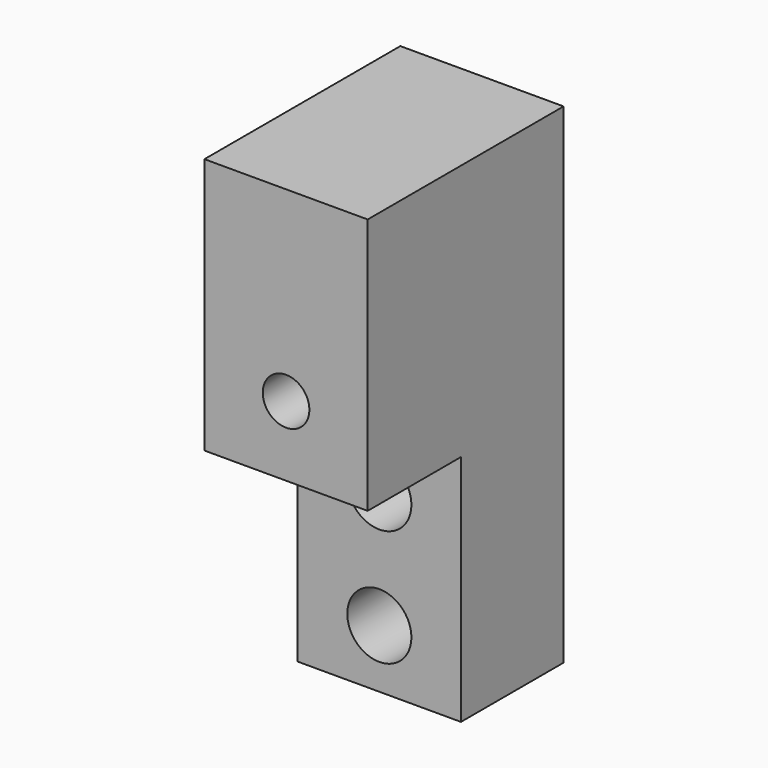
from build123d import *

# Parameters (mm, degrees)
F0_W     = 14
F0_H     = 22
F0_R     = 2
F0_H_2   = 20
F0_R_2   = 2.75
F1_DEPTH = 21
F2_DEPTH = 10
F3_R     = 4
F3_R_2   = 2
F4_DEPTH = 11
F5_R     = 2.75
F6_DEPTH = 1


with BuildPart() as f1:
    # F0 (on Front) → F1 (new body)
    with BuildSketch(Plane.XZ):
        with Locations((-7, 31)):
            Rectangle(F0_W, F0_H)
        with Locations((-7, 26)):
            Circle(F0_R, mode=Mode.SUBTRACT)
        with Locations((-7, 10)):
            Rectangle(F0_W, F0_H_2)
        with Locations((-7, 5)):
            Circle(F0_R_2, mode=Mode.SUBTRACT)
        with Locations((-7, 15)):
            Circle(F0_R_2, mode=Mode.SUBTRACT)
    extrude(amount=-F1_DEPTH)

    # F0 (on Front) → F2 (cut)
    with BuildSketch(Plane.XZ):
        with Locations((-7, 10)):
            Rectangle(F0_W, F0_H_2)
        with Locations((-7, 5)):
            Circle(F0_R_2, mode=Mode.SUBTRACT)
        with Locations((-7, 15)):
            Circle(F0_R_2, mode=Mode.SUBTRACT)
    extrude(amount=-F2_DEPTH, mode=Mode.SUBTRACT)

    # F3 (on face) → F4 (cut)
    with BuildSketch(Plane(origin=(0, 21, 0), x_dir=(-1, 0, 0), z_dir=(0, 1, 0))):
        with Locations((7, 26)):
            Circle(F3_R)
        with Locations((7, 26)):
            Circle(F3_R_2, mode=Mode.SUBTRACT)
    extrude(amount=-F4_DEPTH, mode=Mode.SUBTRACT)

    # F5 (on face) → F6 (cut)
    with BuildSketch(Plane(origin=(0, 21, 0), x_dir=(-1, 0, 0), z_dir=(0, 1, 0))):
        with BuildLine():
            Line((4, 23.354249), (4, 0))
            Line((4, 0), (10, 0))
            Line((10, 0), (10, 23.354249))
            ThreePointArc((10, 23.354249), (7, 22), (4, 23.354249))
        make_face()
        with Locations((7, 5)):
            Circle(F5_R, mode=Mode.SUBTRACT)
        with Locations((7, 15)):
            Circle(F5_R, mode=Mode.SUBTRACT)
    extrude(amount=-F6_DEPTH, mode=Mode.SUBTRACT)


solid = f1.part
